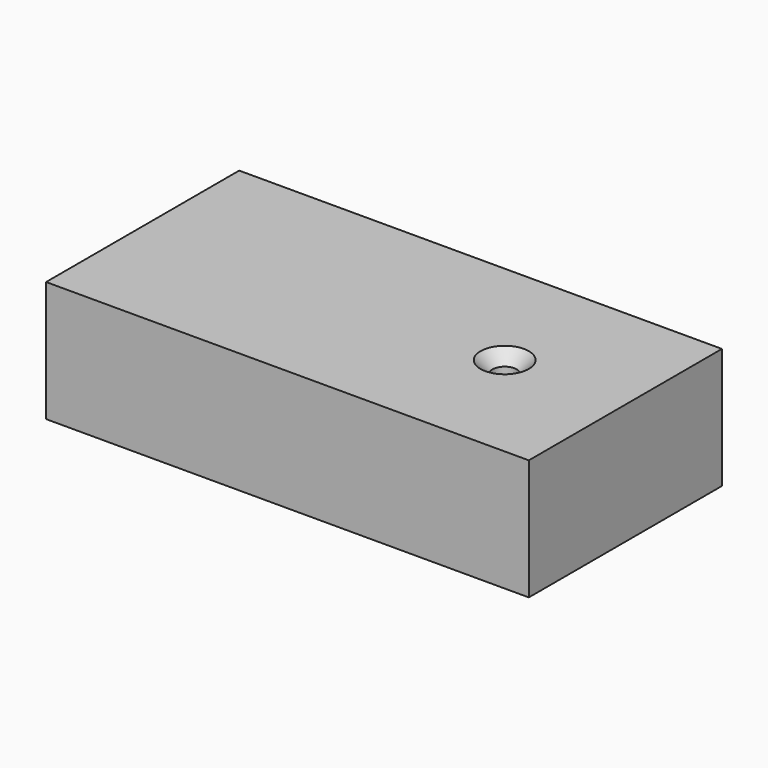
from build123d import *

# Parameters (mm, degrees)
F0_W           = 200
F0_H           = 100
F1_DEPTH       = 50
F3_D           = 10
F3_CSINK_D     = 20
F3_CSINK_ANGLE = 90


with BuildPart() as f1:
    # F0 (on Top) → F1 (new body)
    with BuildSketch(Plane.XY):
        with Locations((100, 50)):
            Rectangle(F0_W, F0_H)
    extrude(amount=F1_DEPTH)

    # F3 (through all)
    with Locations(Plane.XY.offset(50)):
        with Locations((150, 50)):
            CounterSinkHole(F3_D / 2, F3_CSINK_D / 2, counter_sink_angle=F3_CSINK_ANGLE)


solid = f1.part
